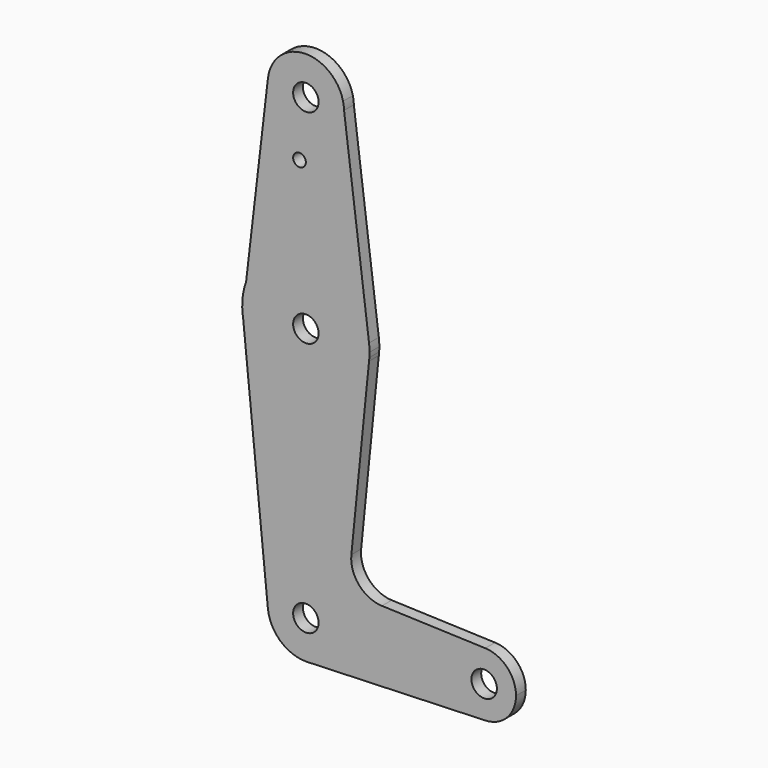
from build123d import *

# Parameters (mm, degrees)
F0_R     = 3.175
F0_R_2   = 1.5875
F1_DEPTH = 3.048


with BuildPart() as f1:
    # F0 (on Front) → F1 (new body)
    with BuildSketch(Plane.XZ):
        with BuildLine():
            Line((-29.486636, 88.783409), (-29.733752, 90.72907))
            ThreePointArc((-29.733752, 90.72907), (-39.546038, 98.072354), (-48.46933, 89.671186))
            ThreePointArc((-48.46933, 89.671186), (-39.564361, 79.053701), (-29.484074, 88.562502))
            ThreePointArc((-29.484074, 88.562502), (-29.484715, 88.672963), (-29.486636, 88.783409))
        make_face()
        with Locations((-39.009074, 88.562502)):
            Circle(F0_R, mode=Mode.SUBTRACT)
        with BuildLine():
            ThreePointArc((-29.486636, 88.783409), (-29.559982, 89.762617), (-29.733752, 90.72907))
            Line((-29.733752, 90.72907), (-29.486636, 88.783409))
        make_face()
        with BuildLine():
            ThreePointArc((-29.484074, 88.562502), (-39.564361, 79.053701), (-48.46933, 89.671186))
            Line((-48.46933, 89.671186), (-53.911542, 43.233523))
            ThreePointArc((-53.911542, 43.233523), (-37.222849, 53.53669), (-23.260587, 39.762694))
            Line((-23.260587, 39.762694), (-29.486636, 88.783409))
            ThreePointArc((-29.486636, 88.783409), (-29.484715, 88.672963), (-29.484074, 88.562502))
        make_face()
        with Locations((-40.596574, 74.287702)):
            Circle(F0_R_2, mode=Mode.SUBTRACT)
        with BuildLine():
            ThreePointArc((-23.260587, 39.762694), (-37.222849, 53.53669), (-53.911542, 43.233523))
            ThreePointArc((-53.911542, 43.233523), (-54.682615, 40.28356), (-54.875493, 37.240595))
            Line((-54.875493, 37.240595), (-54.664962, 35.13404))
            ThreePointArc((-54.664962, 35.13404), (-38.691089, 21.890687), (-23.260472, 35.763216))
            Line((-23.260472, 35.763216), (-23.177393, 36.590538))
            ThreePointArc((-23.177393, 36.590538), (-23.144908, 37.176119), (-23.134074, 37.762502))
            ThreePointArc((-23.134074, 37.762502), (-23.165734, 38.764596), (-23.260587, 39.762694))
        make_face()
        with Locations((-39.009074, 37.762502)):
            Circle(F0_R, mode=Mode.SUBTRACT)
        with BuildLine():
            Line((-54.664962, 35.13404), (-54.875493, 37.240595))
            ThreePointArc((-54.875493, 37.240595), (-54.805382, 36.183804), (-54.664962, 35.13404))
        make_face()
        with BuildLine():
            ThreePointArc((-23.260472, 35.763216), (-38.691089, 21.890687), (-54.664962, 35.13404))
            Line((-54.664962, 35.13404), (-48.48674, -26.684705))
            ThreePointArc((-48.48674, -26.684705), (-39.483266, -16.224429), (-29.484194, -25.737498))
            ThreePointArc((-29.484194, -25.737498), (-32.088703, -32.282099), (-38.477861, -35.247554))
            Line((-38.477861, -35.247554), (5.724042, -33.669948))
            ThreePointArc((5.724042, -33.669948), (-2.496574, -25.737865), (5.72331, -17.805023))
            Line((5.72331, -17.805023), (-20.042425, -16.887802))
            ThreePointArc((-20.042425, -16.887802), (-25.749343, -14.170304), (-27.670005, -8.148281))
            Line((-27.670005, -8.148281), (-23.260472, 35.763216))
        make_face()
        with BuildLine():
            ThreePointArc((-23.260472, 35.763216), (-23.213515, 36.176333), (-23.177393, 36.590538))
            Line((-23.177393, 36.590538), (-23.260472, 35.763216))
        make_face()
        with BuildLine():
            ThreePointArc((-29.484194, -25.737498), (-39.483266, -16.224429), (-48.48674, -26.684705))
            ThreePointArc((-48.48674, -26.684705), (-45.345421, -32.849043), (-38.860955, -35.261227))
            Line((-38.860955, -35.261227), (-38.477861, -35.247554))
            ThreePointArc((-38.477861, -35.247554), (-32.088703, -32.282099), (-29.484194, -25.737498))
        make_face()
        with Locations((-39.009074, -25.737498)):
            Circle(F0_R, mode=Mode.SUBTRACT)
        with BuildLine():
            Line((-38.477861, -35.247554), (-38.860955, -35.261227))
            ThreePointArc((-38.860955, -35.261227), (-38.669339, -35.256318), (-38.477861, -35.247554))
        make_face()
        with BuildLine():
            ThreePointArc((13.378426, -25.737498), (11.152551, -20.22558), (5.72331, -17.805023))
            ThreePointArc((5.72331, -17.805023), (-2.496574, -25.737865), (5.724042, -33.669948))
            ThreePointArc((5.724042, -33.669948), (11.152805, -31.249153), (13.378426, -25.737498))
        make_face()
        with Locations((5.440926, -25.737498)):
            Circle(F0_R, mode=Mode.SUBTRACT)
    extrude(amount=F1_DEPTH)


solid = f1.part
